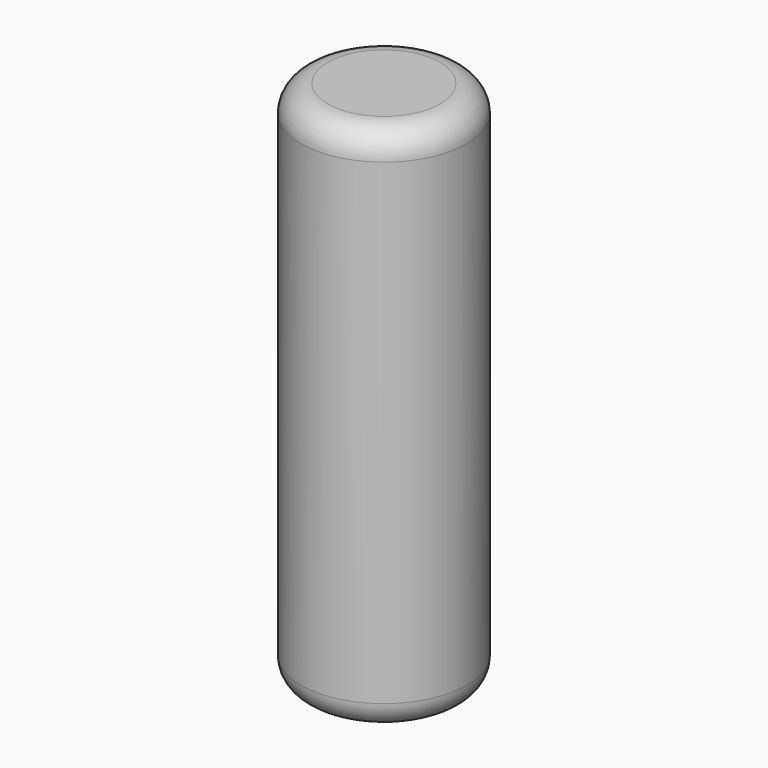
from build123d import *

# Parameters (mm, degrees)
F0_W = 3.96875
F0_H = 25.4
F2_R = 1.27


with BuildPart() as f1:
    # F0 (on Front) → F1 (revolve)
    with BuildSketch(Plane.XZ):
        with Locations((-21.4126656821, 12.7)):
            Rectangle(F0_W, F0_H)
    revolve(axis=Axis((-19.4282906821, 0, 12.7), (0, 0, 1)))

    # F2
    f2_edges = [f1.edges().sort_by_distance(p)[0] for p in [
        (-15.459541, 0, 25.4),
        (-15.459541, 0, 0),
    ]]
    fillet(f2_edges, radius=F2_R)


solid = f1.part
